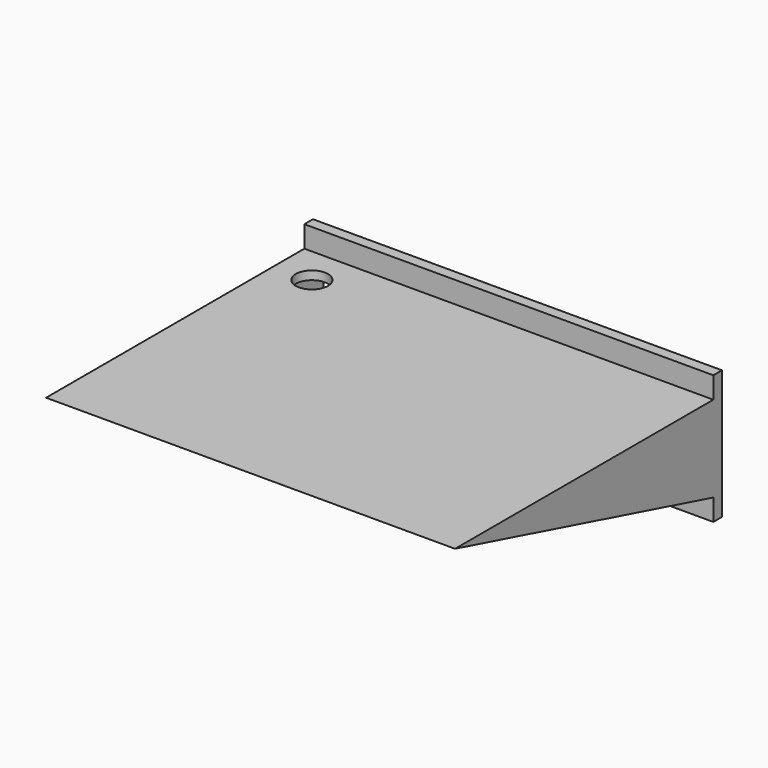
from build123d import *

# Parameters (mm, degrees)
PAD001_DEPTH = 180
PAD_DEPTH    = 190
SKETCH002_R  = 7.5
POCKET_DEPTH = 50.001


with BuildPart() as obj1:
    # Sketch001 → Pad001 (new body)
    with BuildSketch(Plane.YZ.offset(5)):
        Polygon((10, 16), (-124.475825, 16), (10, -19.86022), align=None)
    extrude(amount=PAD001_DEPTH)


with BuildPart() as obj2:
    # Sketch → Pad (new body)
    with BuildSketch(Plane.YZ):
        Polygon((-5, -30), (0, -30), (0, 30), (-5, 30), (-5, 20), (-155, 20), (-5, -20), align=None)
    extrude(amount=PAD_DEPTH)

    # Cut: cut obj1
    add(obj1.part, mode=Mode.SUBTRACT)

    # Sketch002 → Pocket (cut, through all)
    with BuildSketch(Plane.XY.offset(20)):
        with Locations((17.5, -22.5)):
            Circle(SKETCH002_R)
    extrude(amount=-POCKET_DEPTH, mode=Mode.SUBTRACT)


solid = obj2.part
